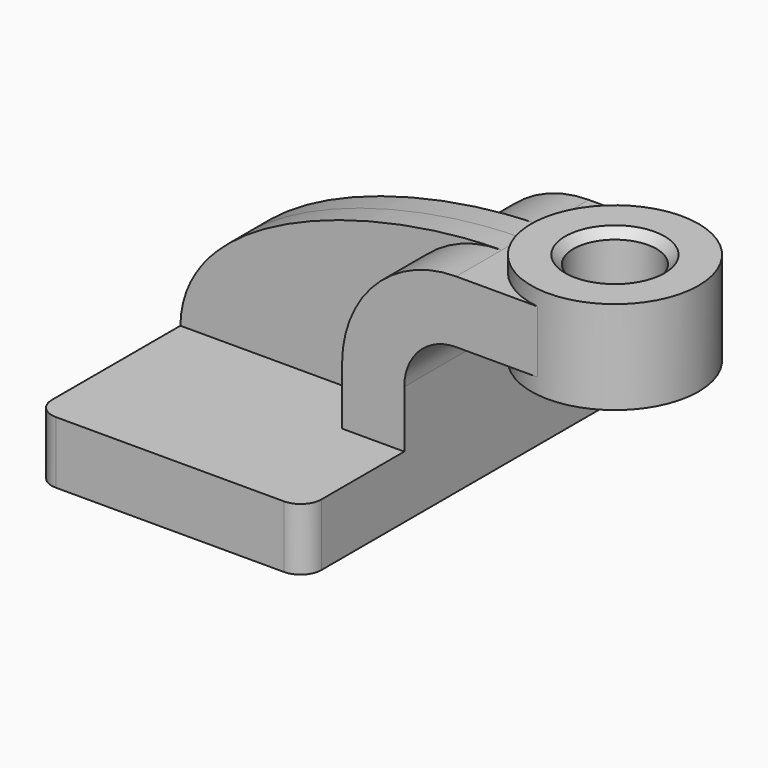
from build123d import *

# Parameters (mm, degrees)
F1_DEPTH = 63.5
F2_DEPTH = 25.4
F3_DEPTH = 7.9375
F5_R     = 6.35
F6_R     = 12.7
F7_DEPTH = 76.201
F8_SIZE  = 2.54


with BuildPart() as f1:
    # F0 (on Front) → F1 (new body, symmetric)
    with BuildSketch(Plane.XZ):
        Polygon((-41.275, 9.525), (-41.275, -9.525), (41.275, -9.525), (41.275, 9.525), (22.225, 9.525), align=None)
    extrude(amount=F1_DEPTH, both=True)

    # F0 (on Front) → F2 (join, symmetric)
    with BuildSketch(Plane.XZ):
        with BuildLine():
            Line((22.225, 9.525), (41.275, 9.525))
            Line((41.275, 9.525), (41.275, 27.0002))
            ThreePointArc((41.275, 27.0002), (45.9246798487, 38.2255201513), (57.15, 42.8752))
            Line((57.15, 42.8752), (60.325, 42.8752))
            Line((60.325, 42.8752), (85.4920223873, 42.8752))
            Line((85.4920223873, 42.8752), (85.4920223873, 61.9252))
            Line((85.4920223873, 61.9252), (60.325, 61.9252))
            Line((60.325, 61.9252), (57.15, 61.9252))
            ThreePointArc((57.15, 61.9252), (32.4542956671, 51.6959043329), (22.225, 27.0002))
            Line((22.225, 27.0002), (22.225, 9.525))
        make_face()
    extrude(amount=F2_DEPTH, both=True)

    # F0 (on Front) → F3 (join, symmetric)
    with BuildSketch(Plane.XZ):
        with BuildLine():
            add(Edge.make_bspline(
                [(-41.275, 9.525), (-40.758330375, 43.9411401749), (18.6435300857, 61.9299374521), (57.15, 61.9252)],
                knots=[0, 0, 0, 0, 111.5045361635, 111.5045361635, 111.5045361635, 111.5045361635], degree=3))
            Line((-41.275, 9.525), (22.225, 9.525))
            Line((22.225, 9.525), (22.225, 27.0002))
            ThreePointArc((22.225, 27.0002), (32.4542956671, 51.6959043329), (57.15, 61.9252))
        make_face()
    extrude(amount=F3_DEPTH, both=True)

    # F0 (on Front) → F4 (revolve)
    with BuildSketch(Plane.XZ):
        Polygon((85.4920223873, 66.675), (85.4920223873, 61.9252), (85.4920223873, 42.8752), (85.4920223873, 38.1), (111.125, 38.1), (111.125, 66.675), align=None)
    revolve(axis=Axis((85.4920223873, 0, 52.4002), (0, 0, 1)))

    # F5
    f5_edges = [f1.edges().sort_by_distance(p)[0] for p in [
        (-41.275, -63.5, 0),
        (41.275, -63.5, 0),
        (41.275, 63.5, 0),
        (-41.275, 63.5, 0),
    ]]
    fillet(f5_edges, radius=F5_R)

    # F6 (on face) → F7 (cut, through all)
    with BuildSketch(Plane.XY.offset(66.675)):
        with Locations((85.4920223873, 0)):
            Circle(F6_R)
    extrude(amount=-F7_DEPTH, mode=Mode.SUBTRACT)

    # F8
    f8_edges = [f1.edges().sort_by_distance(p)[0] for p in [
        (72.792022, 0, 66.675),
        (72.792022, 0, 38.1),
    ]]
    chamfer(f8_edges, length=F8_SIZE)


solid = f1.part
